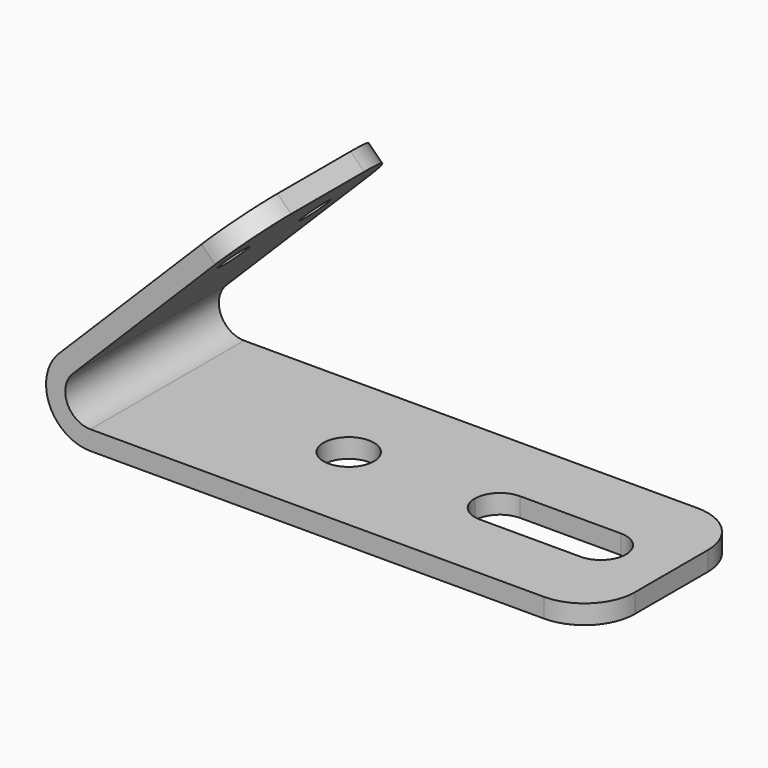
from build123d import *

# Parameters (mm, degrees)
F1_DEPTH = 9.525
F2_R     = 2.5
F3_DEPTH = 1.901
F4_R     = 1.5
F5_DEPTH = 1.9
F6_R     = 5


with BuildPart() as f1:
    # F0 (on Front) → F1 (new body, symmetric)
    with BuildSketch(Plane.XZ):
        with BuildLine():
            ThreePointArc((7.001766, 1.9), (8.578035, 0.503848), (10.62254, 0))
            Line((10.62254, 0), (60.62254, 0))
            Line((60.62254, 0), (60.62254, 1.9))
            Line((60.62254, 1.9), (10.62254, 1.9))
            Line((10.62254, 1.9), (7.001766, 1.9))
        make_face()
        with BuildLine():
            ThreePointArc((7.51127, 7.51127), (6.240567, 4.797883), (7.001766, 1.9))
            Line((7.001766, 1.9), (10.62254, 1.9))
            ThreePointArc((10.62254, 1.9), (8.312841, 3.443291), (8.854773, 6.167767))
            Line((8.854773, 6.167767), (26.532442, 23.845436))
            Line((26.532442, 23.845436), (25.188939, 25.188939))
            Line((25.188939, 25.188939), (7.51127, 7.51127))
        make_face()
    extrude(amount=F1_DEPTH, both=True)

    # F2 (on face) → F3 (cut, through all)
    with BuildSketch(Plane.XY.offset(1.9)):
        with BuildLine():
            ThreePointArc((43.62254, -2.5), (45.390307, -1.767767), (46.12254, 0))
            Line((46.12254, 0), (41.12254, 0))
            ThreePointArc((41.12254, 0), (41.854773, -1.767767), (43.62254, -2.5))
        make_face()
        with BuildLine():
            ThreePointArc((43.62254, 2.5), (45.390307, 1.767767), (46.12254, 0))
            Line((46.12254, 0), (51.12254, 0))
            ThreePointArc((51.12254, 0), (51.854773, 1.767767), (53.62254, 2.5))
            Line((53.62254, 2.5), (43.62254, 2.5))
        make_face()
        with BuildLine():
            Line((41.12254, 0), (46.12254, 0))
            ThreePointArc((46.12254, 0), (45.390307, 1.767767), (43.62254, 2.5))
            ThreePointArc((43.62254, 2.5), (41.854773, 1.767767), (41.12254, 0))
        make_face()
        with BuildLine():
            Line((51.12254, 0), (46.12254, 0))
            ThreePointArc((46.12254, 0), (45.390307, -1.767767), (43.62254, -2.5))
            Line((43.62254, -2.5), (53.62254, -2.5))
            ThreePointArc((53.62254, -2.5), (51.854773, -1.767767), (51.12254, 0))
        make_face()
        with BuildLine():
            ThreePointArc((53.62254, 2.5), (51.854773, 1.767767), (51.12254, 0))
            Line((51.12254, 0), (56.12254, 0))
            ThreePointArc((56.12254, 0), (55.390307, 1.767767), (53.62254, 2.5))
        make_face()
        with BuildLine():
            Line((56.12254, 0), (51.12254, 0))
            ThreePointArc((51.12254, 0), (51.854773, -1.767767), (53.62254, -2.5))
            ThreePointArc((53.62254, -2.5), (55.390307, -1.767767), (56.12254, 0))
        make_face()
        with Locations((28.62254, 0)):
            Circle(F2_R)
    extrude(amount=-F3_DEPTH, mode=Mode.SUBTRACT)

    # F4 (on face) → F5 (cut, through all)
    with BuildSketch(Plane(origin=(0, 0, 0), x_dir=(0, -1, 0), z_dir=(-0.707107, 0, 0.707107))):
        with Locations((-5.025, 28.12254)):
            Circle(F4_R)
        with Locations((5.025, 28.12254)):
            Circle(F4_R)
    extrude(amount=-F5_DEPTH, mode=Mode.SUBTRACT)

    # F6
    f6_edges = [f1.edges().sort_by_distance(p)[0] for p in [
        (25.860691, 9.525, 24.517188),
        (25.860691, -9.525, 24.517188),
        (60.62254, -9.525, 0.95),
        (60.62254, 9.525, 0.95),
    ]]
    fillet(f6_edges, radius=F6_R)


solid = f1.part
